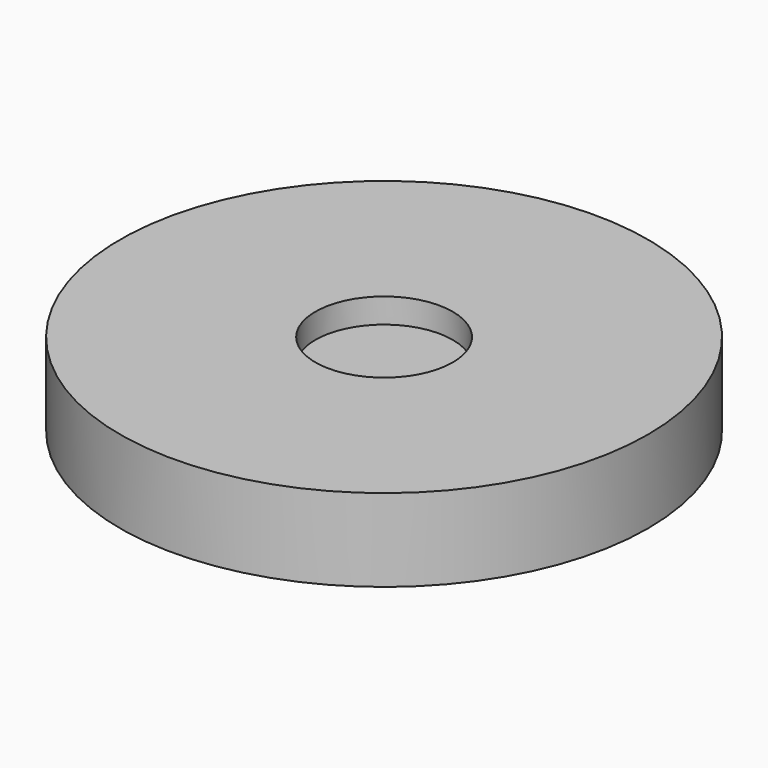
from build123d import *

# Parameters (mm, degrees)
SKETCH003_R  = 16.622711
PAD001_DEPTH = 10
SKETCH_R     = 63.886257
PAD_DEPTH    = 20


with BuildPart() as body001:
    # Sketch003 → Pad001 (new body)
    with BuildSketch(Plane.XY.offset(14)):
        Circle(SKETCH003_R)
    extrude(amount=PAD001_DEPTH)


with BuildPart() as cut:
    # Sketch → Pad (new body)
    with BuildSketch(Plane.XY):
        Circle(SKETCH_R)
    extrude(amount=PAD_DEPTH)

    # Cut: cut Body001
    add(body001.part, mode=Mode.SUBTRACT)


solid = cut.part
